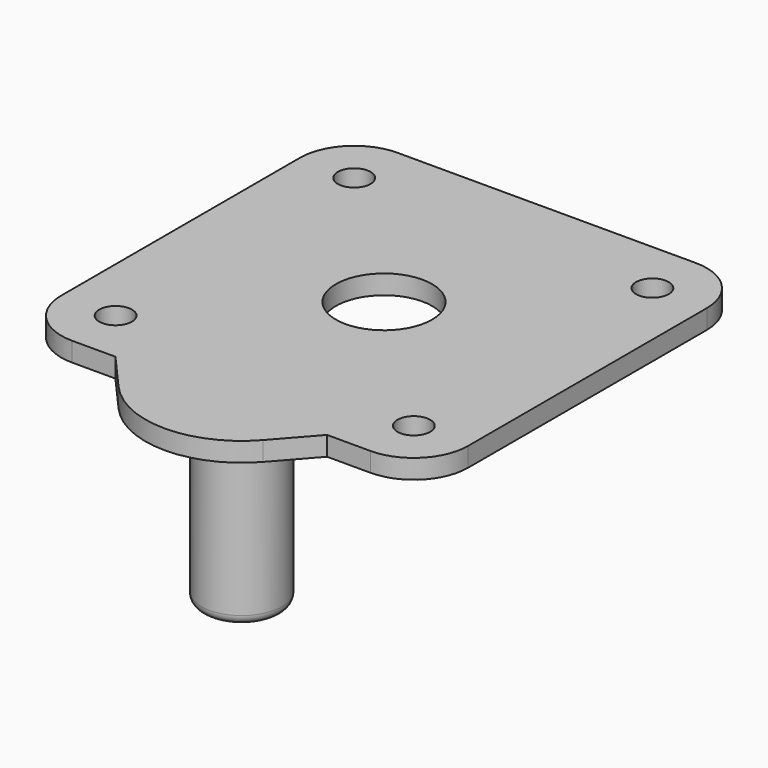
from build123d import *

# Parameters (mm, degrees)
SKETCH114_R   = 1.7
SKETCH114_R_2 = 5
PAD058_DEPTH  = 2
PAD061_DEPTH  = 2
SKETCH119_R   = 4.2
PAD062_DEPTH  = 18
FILLET010_R   = 1


with BuildPart() as part:
    # Sketch114 → Pad058 (new body)
    with BuildSketch(Plane.XY):
        with BuildLine():
            ThreePointArc((-15.5, 21.15), (-19.495153, 19.495153), (-21.15, 15.5))
            Line((-21.15, 15.5), (-21.15, -15.5))
            ThreePointArc((-21.15, -15.5), (-19.495153, -19.495153), (-15.5, -21.15))
            Line((-15.5, -21.15), (15.5, -21.15))
            ThreePointArc((15.5, -21.15), (19.495153, -19.495153), (21.15, -15.5))
            Line((21.15, -15.5), (21.15, 15.500001))
            ThreePointArc((21.15, 15.500001), (19.495153, 19.495154), (15.5, 21.15))
            Line((15.5, 21.15), (-15.5, 21.15))
        make_face()
        with Locations((-15.5, 15.5)):
            Circle(SKETCH114_R, mode=Mode.SUBTRACT)
        with Locations((15.5, 15.5)):
            Circle(SKETCH114_R, mode=Mode.SUBTRACT)
        with Locations((15.5, -15.5)):
            Circle(SKETCH114_R, mode=Mode.SUBTRACT)
        with Locations((-15.5, -15.5)):
            Circle(SKETCH114_R, mode=Mode.SUBTRACT)
        Circle(SKETCH114_R_2, mode=Mode.SUBTRACT)
    extrude(amount=-PAD058_DEPTH)

    # Sketch118 → Pad061 (join)
    with BuildSketch(Plane(origin=(0, 0, -2), x_dir=(1, 0, 0), z_dir=(0, 0, -1))):
        with BuildLine():
            ThreePointArc((7.496486, 25.118361), (0, 28.5), (-7.496486, 25.118361))
            Line((-7.496486, 25.118361), (-11, 21.15))
            Line((11, 21.15), (-11, 21.15))
            Line((7.496486, 25.118361), (11, 21.15))
        make_face()
    extrude(amount=-PAD061_DEPTH)

    # Sketch119 (on Face18 of Pad061) → Pad062 (join)
    with BuildSketch(Plane(origin=(0, 0, -2), x_dir=(1, 0, 0), z_dir=(0, 0, -1))):
        with Locations((0, 18.5)):
            Circle(SKETCH119_R)
    extrude(amount=PAD062_DEPTH)

    # Fillet010
    fillet010_edges = [part.edges().sort_by_distance(p)[0] for p in [
        (-4.2, -18.5, -20),
    ]]
    fillet(fillet010_edges, radius=FILLET010_R)


with BuildPart() as part_1:
    # Body026 placement: moved
    add(part.part.moved(Location((0, 67.5, -103))))


solid = part_1.part
